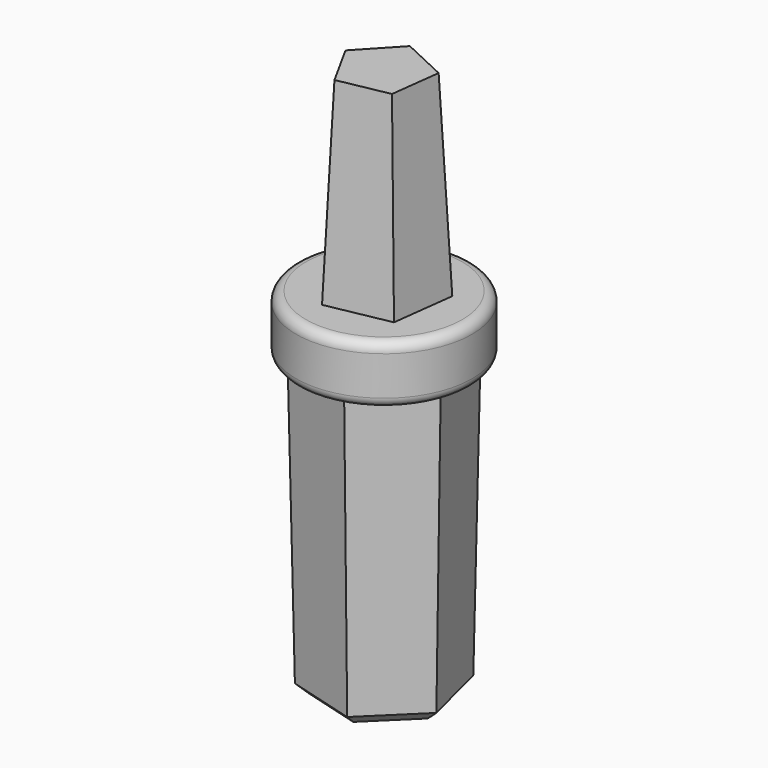
from build123d import *

# Parameters (mm, degrees)
F1_DEPTH = 10
F1_TAPER = 2.56
F2_R     = 4.5
F3_DEPTH = 3
F4_R     = 0.5
F6_DEPTH = 15
F6_TAPER = 1
F7_SIZE  = 0.5


with BuildPart() as f1:
    # F0 (on Top) → F1 (new body)
    with BuildSketch(Plane.XY):
        Polygon((-1.173613, -2.502389), (2.017247, -1.889453), (2.42034, 1.334643), (-0.521395, 2.714308), (-2.74258, 0.342891), align=None)
    extrude(amount=F1_DEPTH, taper=F1_TAPER)

    # F2 (on Top) → F3 (join)
    with BuildSketch(Plane.XY):
        Circle(F2_R)
    extrude(amount=-F3_DEPTH)

    # F4
    f4_edges = [f1.edges().sort_by_distance(p)[0] for p in [
        (-4.5, 0, 0),
        (-4.5, 0, -3),
    ]]
    fillet(f4_edges, radius=F4_R)

    # F5 (on face) → F6 (join)
    with BuildSketch(Plane(origin=(0, 0, -3), x_dir=(1, 0, 0), z_dir=(0, 0, -1))):
        Polygon((2.770276, -2.707296), (3.729724, 1.045481), (0.959449, 3.752777), (-2.770276, 2.707296), (-3.729724, -1.045481), (-0.959449, -3.752777), align=None)
    extrude(amount=F6_DEPTH, taper=F6_TAPER)

    # F7
    f7_edges = [f1.edges().sort_by_distance(p)[0] for p in [
        (2.161589, -2.211874, -18),
        (-0.834745, -2.977927, -18),
        (-2.996333, -0.766054, -18),
        (-2.161589, 2.211874, -18),
        (0.834745, 2.977927, -18),
        (2.996333, 0.766054, -18),
    ]]
    chamfer(f7_edges, length=F7_SIZE)


solid = f1.part
